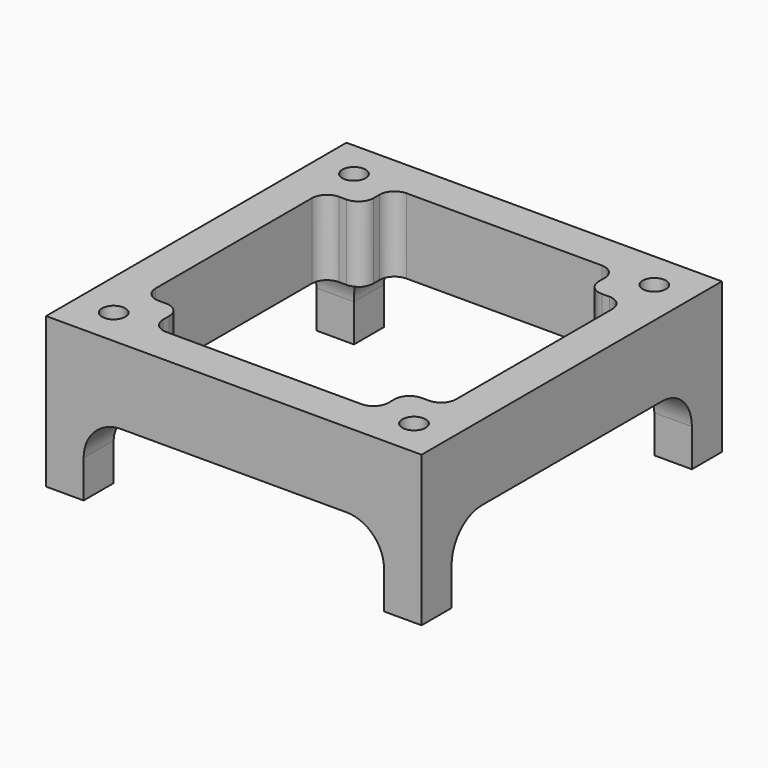
from build123d import *

# Parameters (mm, degrees)
SKETCH166_W             = 50
SKETCH166_H             = 50
PAD028_DEPTH            = 20
POCKET139_DEPTH         = 20.001
POCKET140_DEPTH         = 50.001
POCKET141_DEPTH         = 50.001
SKETCH170_R             = 1.55
POCKET142_DEPTH         = 5
SKETCH171_R             = 1.55
POCKET143_DEPTH         = 3
SKETCH172_R             = 1.55
POCKET144_DEPTH         = 3
BODY029_PLACEMENT_ANGLE = 90


with BuildPart() as part:
    # Sketch166 → Pad028 (new body)
    with BuildSketch(Plane.XY):
        Rectangle(SKETCH166_W, SKETCH166_H)
    extrude(amount=PAD028_DEPTH)

    # Sketch167 (on Face6 of Pad028) → Pocket139 (cut, through all)
    with BuildSketch(Plane.XY.offset(20)):
        with BuildLine():
            Line((-18, 15), (-17, 15))
            ThreePointArc((-17, 15), (-15.585786, 15.585786), (-15, 17))
            Line((-15, 17), (-15, 18))
            ThreePointArc((-13, 20), (-14.414214, 19.414214), (-15, 18))
            Line((-13, 20), (13, 20))
            ThreePointArc((15, 18), (14.414214, 19.414214), (13, 20))
            Line((15, 18), (15, 17))
            ThreePointArc((15, 17), (15.585786, 15.585786), (17, 15))
            Line((17, 15), (18, 15))
            ThreePointArc((20, 13), (19.414214, 14.414214), (18, 15))
            Line((20, 13), (20, -13))
            ThreePointArc((18, -15), (19.414214, -14.414214), (20, -13))
            Line((18, -15), (17, -15))
            ThreePointArc((17, -15), (15.585786, -15.585786), (15, -17))
            Line((15, -17), (15, -18))
            ThreePointArc((13, -20), (14.414214, -19.414214), (15, -18))
            Line((13, -20), (-13, -20))
            ThreePointArc((-15, -18), (-14.414214, -19.414214), (-13, -20))
            Line((-15, -18), (-15, -17))
            ThreePointArc((-15, -17), (-15.585786, -15.585786), (-17, -15))
            Line((-17, -15), (-18, -15))
            ThreePointArc((-20, -13), (-19.414214, -14.414214), (-18, -15))
            Line((-20, -13), (-20, 13))
            ThreePointArc((-18, 15), (-19.414214, 14.414214), (-20, 13))
        make_face()
    extrude(amount=-POCKET139_DEPTH, mode=Mode.SUBTRACT)

    # Sketch168 (on Face3 of Pocket139) → Pocket140 (cut, through all)
    with BuildSketch(Plane.YZ.offset(25)):
        with BuildLine():
            Line((-15, 10), (15, 10))
            ThreePointArc((20, 5), (18.535534, 8.535534), (15, 10))
            Line((20, 5), (20, 0))
            Line((20, 0), (-20, 0))
            Line((-20, 0), (-20, 5))
            ThreePointArc((-15, 10), (-18.535534, 8.535534), (-20, 5))
        make_face()
    extrude(amount=-POCKET140_DEPTH, mode=Mode.SUBTRACT)

    # Sketch169 (on Face6 of Pocket139) → Pocket141 (cut, through all)
    with BuildSketch(Plane.XZ.offset(25)):
        with BuildLine():
            Line((-15, 10), (15, 10))
            ThreePointArc((20, 5), (18.535534, 8.535534), (15, 10))
            Line((20, 5), (20, 0))
            Line((20, 0), (-20, 0))
            Line((-20, 0), (-20, 5))
            ThreePointArc((-15, 10), (-18.535534, 8.535534), (-20, 5))
        make_face()
    extrude(amount=-POCKET141_DEPTH, mode=Mode.SUBTRACT)

    # Sketch170 → Pocket142 (cut)
    with BuildSketch(Plane.XY.offset(20)):
        with Locations((-20, 20)):
            Circle(SKETCH170_R)
        with Locations((20, 20)):
            Circle(SKETCH170_R)
        with Locations((20, -20)):
            Circle(SKETCH170_R)
        with Locations((-20, -20)):
            Circle(SKETCH170_R)
    extrude(amount=-POCKET142_DEPTH, mode=Mode.SUBTRACT)

    # Sketch171 (on Face27 of Pocket142) → Pocket143 (cut)
    with BuildSketch(Plane.XZ.offset(25)):
        with Locations((-20, 14)):
            Circle(SKETCH171_R)
        with Locations((20, 14)):
            Circle(SKETCH171_R)
    extrude(amount=-POCKET143_DEPTH, mode=Mode.SUBTRACT)

    # Sketch172 (on Face11 of Pocket143) → Pocket144 (cut)
    with BuildSketch(Plane(origin=(-25, 0, 0), x_dir=(0, -1, 0), z_dir=(-1, 0, 0))):
        with Locations((-20, 14)):
            Circle(SKETCH172_R)
        with Locations((20, 14)):
            Circle(SKETCH172_R)
    extrude(amount=-POCKET144_DEPTH, mode=Mode.SUBTRACT)


with BuildPart() as part_1:
    # Body029 placement: moved
    add(part.part.moved(Location((25, 145, 0))).rotate(Axis((25, 145, 0), (0, 0, -1)), BODY029_PLACEMENT_ANGLE))


solid = part_1.part
